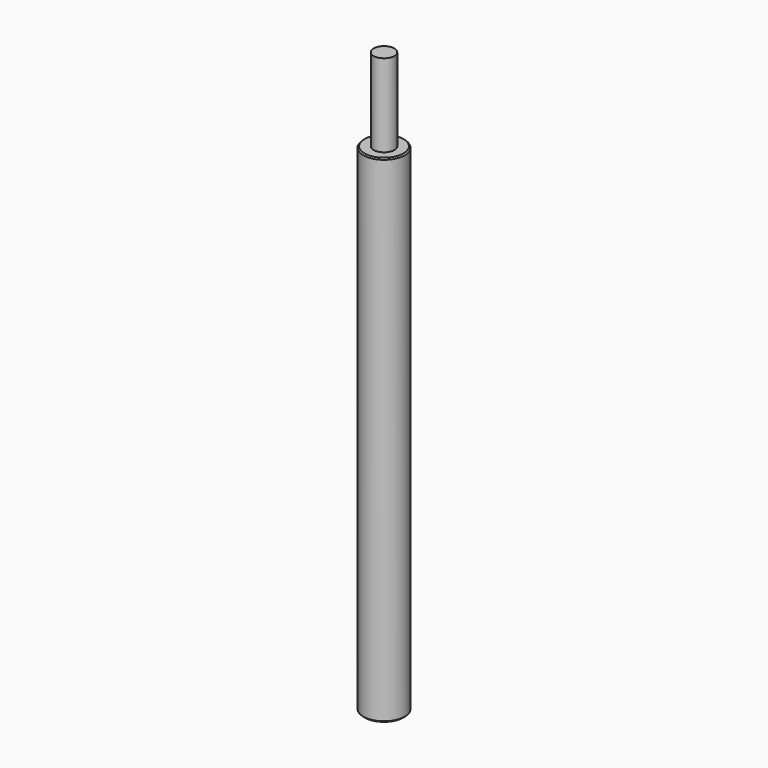
from build123d import *

# Parameters (mm, degrees)
F0_R     = 12.7
F1_DEPTH = 304.8
F2_SIZE  = 0.762
F3_R     = 6.35
F4_DEPTH = 50.8


with BuildPart() as f1:
    # F0 (on Top) → F1 (new body)
    with BuildSketch(Plane.XY):
        Circle(F0_R)
    extrude(amount=F1_DEPTH)

    # F2
    f2_edges = [f1.edges().sort_by_distance(p)[0] for p in [
        (-12.7, 0, 0),
        (-12.7, 0, 304.8),
    ]]
    chamfer(f2_edges, length=F2_SIZE)

    # F3 (on face) → F4 (join)
    with BuildSketch(Plane.XY.offset(304.8)):
        Circle(F3_R)
    extrude(amount=F4_DEPTH)


solid = f1.part
